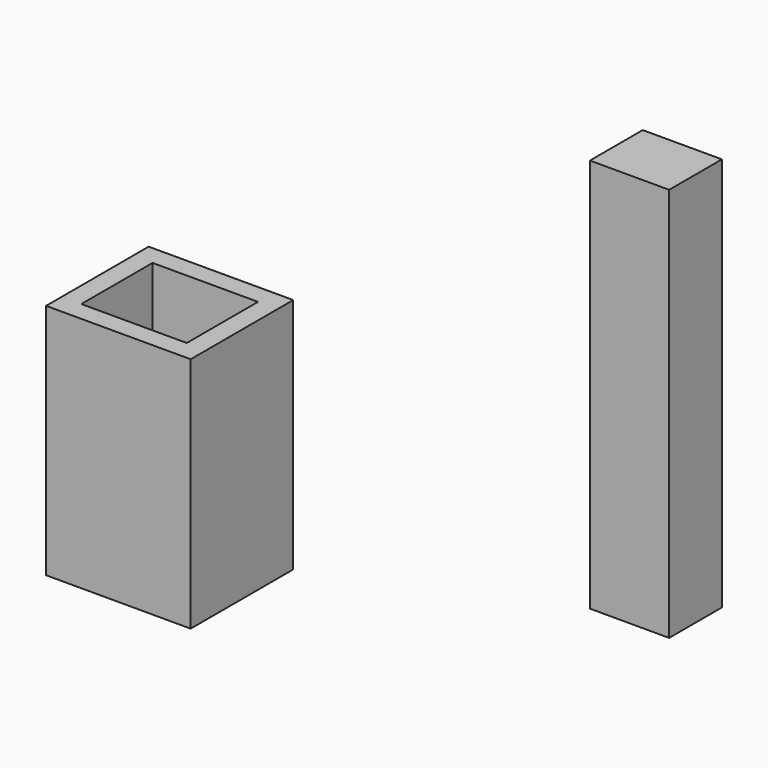
from build123d import *

# Parameters (mm, degrees)
F0_W     = 46.918675
F0_H     = 41.605199
F0_W_2   = 34.218675
F0_H_2   = 28.905199
F1_DEPTH = 76.962
F2_W     = 25.7048
F2_H     = 21.40746
F3_DEPTH = 128.016


with BuildPart() as f1:
    # F0 (on Top) → F1 (new body)
    with BuildSketch(Plane.XY):
        with Locations((-64.400352, -37.181562)):
            Rectangle(F0_W, F0_H)
        with Locations((-64.400352, -37.181562)):
            Rectangle(F0_W_2, F0_H_2, mode=Mode.SUBTRACT)
    extrude(amount=F1_DEPTH)


with BuildPart() as f3:
    # F2 (on Top) → F3 (new body)
    with BuildSketch(Plane.XY):
        with Locations((44.056305, 24.485276)):
            Rectangle(F2_W, F2_H)
    extrude(amount=F3_DEPTH)


solid = Compound([f1.part, f3.part])
